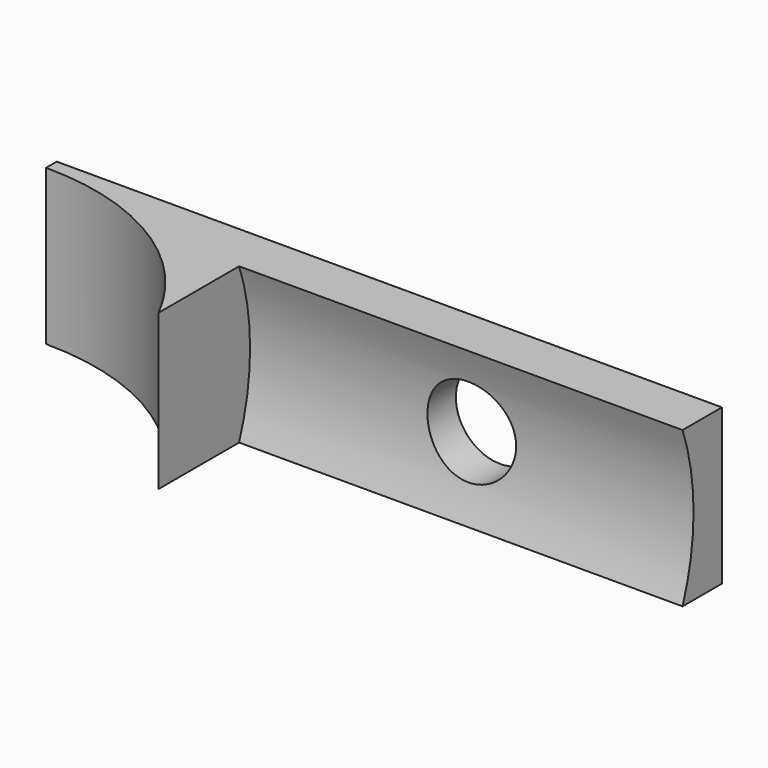
from build123d import *

# Parameters (mm, degrees)
CYLINDER001_R          = 11.2
CYLINDER001_DEPTH      = 7
CYLINDER002_R          = 2
CYLINDER002_DEPTH      = 10
CYLINDER002_ROLL_ANGLE = -90
CYLINDER_R             = 10.2
CYLINDER_DEPTH         = 20
CYLINDER_PITCH_ANGLE   = 90
BOX_W                  = 30
BOX_H                  = 11.8
BOX_DEPTH              = 7


with BuildPart() as cylinder001:
    # Cylinder001 → Cylinder001 (new body)
    with BuildSketch(Plane.XY.offset(-3.5)):
        Circle(CYLINDER001_R)
    extrude(amount=CYLINDER001_DEPTH)


with BuildPart() as cylinder002:
    # Cylinder002 → Cylinder002 (new body)
    with BuildSketch(Plane.XY):
        Circle(CYLINDER002_R)
    extrude(amount=CYLINDER002_DEPTH)


with BuildPart() as cylinder002_1:
    # Cylinder002 roll: moved
    add(cylinder002.part.rotate(Axis((0, 0, 0), (1, 0, 0)), CYLINDER002_ROLL_ANGLE))


with BuildPart() as cylinder002_2:
    # Cylinder002 placement: moved
    add(cylinder002_1.part.moved(Location((20, 5, 0))))


with BuildPart() as fusion:
    # Cylinder → Cylinder (new body)
    with BuildSketch(Plane.XY):
        Circle(CYLINDER_R)
    extrude(amount=CYLINDER_DEPTH)


with BuildPart() as fusion_1:
    # Cylinder pitch: moved
    add(fusion.part.rotate(Axis((0, 0, 0), (0, 1, 0)), CYLINDER_PITCH_ANGLE))


with BuildPart() as fusion_2:
    # Cylinder placement: moved
    add(fusion_1.part.moved(Location((10, 0, 0))))

    # Fusion: union Cylinder001, Cylinder002
    add(cylinder001.part)
    add(cylinder002_2.part)


with BuildPart() as cut:
    # Box → Box (new body)
    with BuildSketch(Plane.XY.offset(-3.5)):
        with Locations((15, 5.9)):
            Rectangle(BOX_W, BOX_H)
    extrude(amount=BOX_DEPTH)

    # Cut: cut Fusion
    add(fusion_2.part, mode=Mode.SUBTRACT)


solid = cut.part
